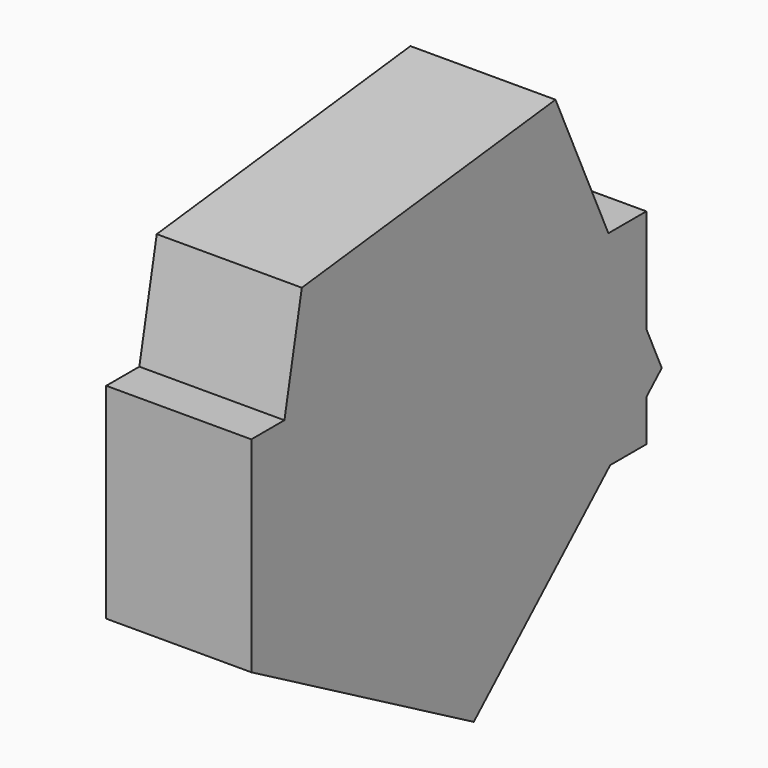
from build123d import *

# Parameters (mm, degrees)
F1_DEPTH = 25.4


with BuildPart() as f1:
    # F0 (on Right) → F1 (new body)
    with BuildSketch(Plane.YZ):
        Polygon((-23.6915700774, 47.1136197448), (-30.9361889958, 47.1136197448), (-30.9361889958, 11.2131685019), align=None)
        Polygon((-19.8820221431, 65.9916989665), (-23.6915700774, 47.1136197448), (47.2064001383, 47.1136197448), (35.6313816245, 72.4060583893), align=None)
        Polygon((47.2064001383, 47.1136197448), (-23.6915700774, 47.1136197448), (-30.9361889958, 11.2131685019), (47.596158079, 11.2131685019), (55.5141568184, 18.4918662292), (55.5141568184, 28.9604370214), align=None)
        Polygon((47.596158079, 11.2131685019), (-30.9361889958, 11.2131685019), (17.7453639394, -16.2274657561), align=None)
        Polygon((55.5141568184, 47.1136197448), (47.2064001383, 47.1136197448), (55.5141568184, 28.9604370214), align=None)
        Polygon((55.5141568184, 18.4918662292), (47.596158079, 11.2131685019), (55.5141568184, 11.2131685019), align=None)
        Polygon((58.8863851313, 21.5918200642), (55.5141568184, 28.9604370214), (55.5141568184, 18.4918662292), align=None)
    extrude(amount=F1_DEPTH)


solid = f1.part
